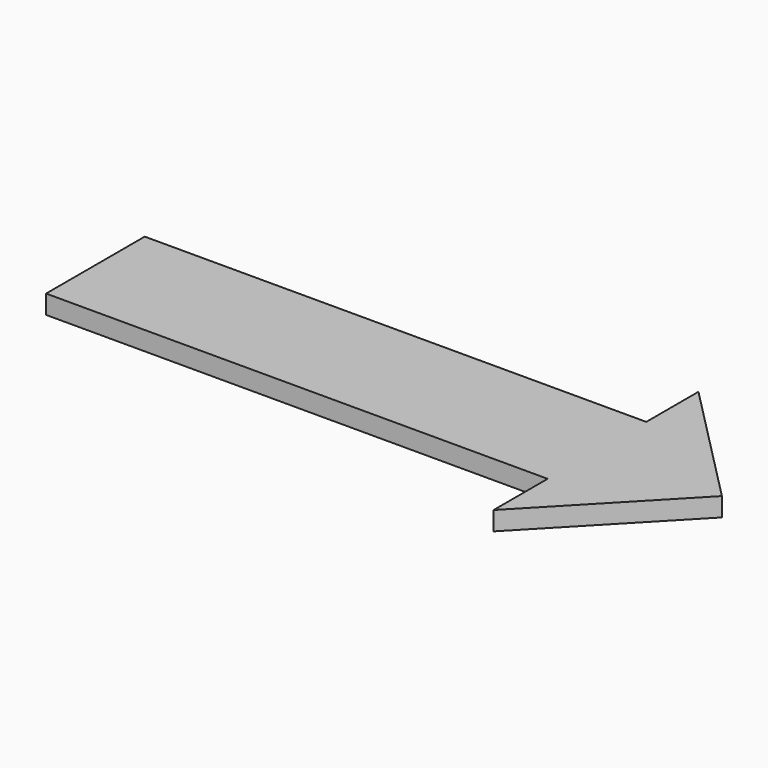
from build123d import *

# Parameters (mm, degrees)
PAD_DEPTH = 3


with BuildPart() as part:
    # Sketch → Pad (new body)
    with BuildSketch(Plane.XY):
        Polygon((-40.075611, 9.735352), (39.886581, 9.735352), (39.886581, 20.132328), (59.735359, 0), (39.886581, -20.699432), (39.886581, -9.924385), (-40.075611, -9.924385), align=None)
    extrude(amount=PAD_DEPTH)


solid = part.part
